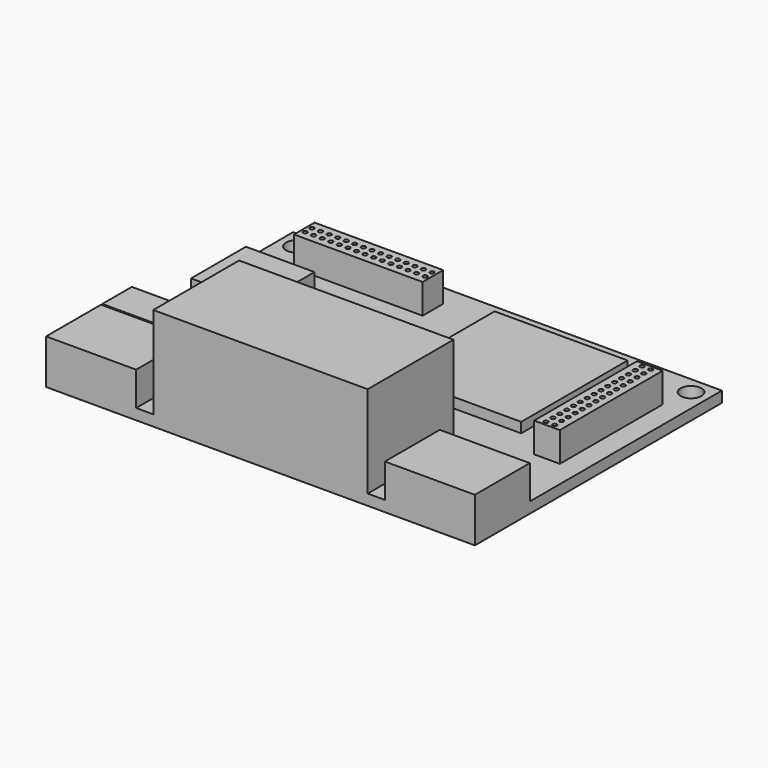
from build123d import *

# Parameters (mm, degrees)
F0_R     = 1.55
F0_W     = 7.62
F0_H     = 7.62
F0_W_2   = 10.16
F0_H_2   = 10.16
F0_W_3   = 19.05
F0_H_3   = 3.81
F0_W_4   = 19.685
F0_H_4   = 19.685
F0_W_5   = 3.81
F0_H_5   = 19.05
F0_W_6   = 31.75
F0_H_6   = 15.875
F0_W_7   = 13.335
F0_R_2   = 0.3175
F0_H_7   = 5.465
F1_DEPTH = 1.6
F2_DEPTH = 4.4
F3_DEPTH = 1.5
F4_DEPTH = 4.3
F5_DEPTH = 5
F6_DEPTH = 13.6


with BuildPart() as f1:
    # F0 (on Top) → F1 (new body)
    with BuildSketch(Plane.XY):
        Polygon((31.75, -12.7), (31.75, 22.86), (-31.75, 22.86), (-31.75, -6.985), (-21.59, -6.985), (-21.59, -12.45), (-31.75, -12.45), (-31.75, -12.7), (-18.415, -12.7), (-18.415, -22.86), (-15.875, -22.86), (-15.875, -6.985), (15.875, -6.985), (15.875, -22.86), (18.415, -22.86), (18.415, -12.7), align=None)
        with Locations((-19.685, -3.81)):
            Circle(F0_R, mode=Mode.SUBTRACT)
        with Locations((-6.985, -1.27)):
            Rectangle(F0_W, F0_H, mode=Mode.SUBTRACT)
        with Locations((-23.495, 5.08)):
            Rectangle(F0_W_2, F0_H_2, mode=Mode.SUBTRACT)
        with Locations((-29.21, 20.32)):
            Circle(F0_R, mode=Mode.SUBTRACT)
        with Locations((-16.51, 17.78)):
            Rectangle(F0_W_3, F0_H_3, mode=Mode.SUBTRACT)
        with Locations((10.4775, 9.8425)):
            Rectangle(F0_W_4, F0_H_4, mode=Mode.SUBTRACT)
        with Locations((26.67, 6.35)):
            Rectangle(F0_W_5, F0_H_5, mode=Mode.SUBTRACT)
        with Locations((29.21, 20.32)):
            Circle(F0_R, mode=Mode.SUBTRACT)
        with Locations((0, -14.9225)):
            Rectangle(F0_W_6, F0_H_6)
        with Locations((10.4775, 9.8425)):
            Rectangle(F0_W_4, F0_H_4)
        with Locations((-25.0825, -17.78)):
            Rectangle(F0_W_7, F0_H_2)
        with Locations((25.0825, -17.78)):
            Rectangle(F0_W_7, F0_H_2)
        with Locations((-23.495, 5.08)):
            Rectangle(F0_W_2, F0_H_2)
        with Locations((26.67, 6.35)):
            Rectangle(F0_W_5, F0_H_5)
        with Locations((26.035, -2.54)):
            Circle(F0_R_2, mode=Mode.SUBTRACT)
        with Locations((27.305, -2.54)):
            Circle(F0_R_2, mode=Mode.SUBTRACT)
        with Locations((26.035, -1.27)):
            Circle(F0_R_2, mode=Mode.SUBTRACT)
        with Locations((27.305, -1.27)):
            Circle(F0_R_2, mode=Mode.SUBTRACT)
        with Locations((26.035, 0)):
            Circle(F0_R_2, mode=Mode.SUBTRACT)
        with Locations((27.305, 0)):
            Circle(F0_R_2, mode=Mode.SUBTRACT)
        with Locations((26.035, 1.27)):
            Circle(F0_R_2, mode=Mode.SUBTRACT)
        with Locations((27.305, 1.27)):
            Circle(F0_R_2, mode=Mode.SUBTRACT)
        with Locations((26.035, 2.54)):
            Circle(F0_R_2, mode=Mode.SUBTRACT)
        with Locations((27.305, 2.54)):
            Circle(F0_R_2, mode=Mode.SUBTRACT)
        with Locations((26.035, 3.81)):
            Circle(F0_R_2, mode=Mode.SUBTRACT)
        with Locations((27.305, 3.81)):
            Circle(F0_R_2, mode=Mode.SUBTRACT)
        with Locations((26.035, 5.08)):
            Circle(F0_R_2, mode=Mode.SUBTRACT)
        with Locations((27.305, 5.08)):
            Circle(F0_R_2, mode=Mode.SUBTRACT)
        with Locations((26.035, 6.35)):
            Circle(F0_R_2, mode=Mode.SUBTRACT)
        with Locations((27.305, 6.35)):
            Circle(F0_R_2, mode=Mode.SUBTRACT)
        with Locations((26.035, 7.62)):
            Circle(F0_R_2, mode=Mode.SUBTRACT)
        with Locations((27.305, 7.62)):
            Circle(F0_R_2, mode=Mode.SUBTRACT)
        with Locations((26.035, 8.89)):
            Circle(F0_R_2, mode=Mode.SUBTRACT)
        with Locations((27.305, 8.89)):
            Circle(F0_R_2, mode=Mode.SUBTRACT)
        with Locations((26.035, 10.16)):
            Circle(F0_R_2, mode=Mode.SUBTRACT)
        with Locations((27.305, 10.16)):
            Circle(F0_R_2, mode=Mode.SUBTRACT)
        with Locations((26.035, 11.43)):
            Circle(F0_R_2, mode=Mode.SUBTRACT)
        with Locations((27.305, 11.43)):
            Circle(F0_R_2, mode=Mode.SUBTRACT)
        with Locations((26.035, 12.7)):
            Circle(F0_R_2, mode=Mode.SUBTRACT)
        with Locations((27.305, 12.7)):
            Circle(F0_R_2, mode=Mode.SUBTRACT)
        with Locations((26.035, 13.97)):
            Circle(F0_R_2, mode=Mode.SUBTRACT)
        with Locations((27.305, 13.97)):
            Circle(F0_R_2, mode=Mode.SUBTRACT)
        with Locations((26.035, 15.24)):
            Circle(F0_R_2, mode=Mode.SUBTRACT)
        with Locations((27.305, 15.24)):
            Circle(F0_R_2, mode=Mode.SUBTRACT)
        with Locations((-16.51, 17.78)):
            Rectangle(F0_W_3, F0_H_3)
        with Locations((-25.4, 17.145)):
            Circle(F0_R_2, mode=Mode.SUBTRACT)
        with Locations((-24.13, 17.145)):
            Circle(F0_R_2, mode=Mode.SUBTRACT)
        with Locations((-25.4, 18.415)):
            Circle(F0_R_2, mode=Mode.SUBTRACT)
        with Locations((-24.13, 18.415)):
            Circle(F0_R_2, mode=Mode.SUBTRACT)
        with Locations((-22.86, 17.145)):
            Circle(F0_R_2, mode=Mode.SUBTRACT)
        with Locations((-22.86, 18.415)):
            Circle(F0_R_2, mode=Mode.SUBTRACT)
        with Locations((-21.59, 17.145)):
            Circle(F0_R_2, mode=Mode.SUBTRACT)
        with Locations((-20.32, 17.145)):
            Circle(F0_R_2, mode=Mode.SUBTRACT)
        with Locations((-21.59, 18.415)):
            Circle(F0_R_2, mode=Mode.SUBTRACT)
        with Locations((-20.32, 18.415)):
            Circle(F0_R_2, mode=Mode.SUBTRACT)
        with Locations((-19.05, 17.145)):
            Circle(F0_R_2, mode=Mode.SUBTRACT)
        with Locations((-19.05, 18.415)):
            Circle(F0_R_2, mode=Mode.SUBTRACT)
        with Locations((-17.78, 17.145)):
            Circle(F0_R_2, mode=Mode.SUBTRACT)
        with Locations((-16.51, 17.145)):
            Circle(F0_R_2, mode=Mode.SUBTRACT)
        with Locations((-17.78, 18.415)):
            Circle(F0_R_2, mode=Mode.SUBTRACT)
        with Locations((-16.51, 18.415)):
            Circle(F0_R_2, mode=Mode.SUBTRACT)
        with Locations((-15.24, 17.145)):
            Circle(F0_R_2, mode=Mode.SUBTRACT)
        with Locations((-13.97, 17.145)):
            Circle(F0_R_2, mode=Mode.SUBTRACT)
        with Locations((-15.24, 18.415)):
            Circle(F0_R_2, mode=Mode.SUBTRACT)
        with Locations((-13.97, 18.415)):
            Circle(F0_R_2, mode=Mode.SUBTRACT)
        with Locations((-12.7, 17.145)):
            Circle(F0_R_2, mode=Mode.SUBTRACT)
        with Locations((-12.7, 18.415)):
            Circle(F0_R_2, mode=Mode.SUBTRACT)
        with Locations((-11.43, 17.145)):
            Circle(F0_R_2, mode=Mode.SUBTRACT)
        with Locations((-10.16, 17.145)):
            Circle(F0_R_2, mode=Mode.SUBTRACT)
        with Locations((-11.43, 18.415)):
            Circle(F0_R_2, mode=Mode.SUBTRACT)
        with Locations((-10.16, 18.415)):
            Circle(F0_R_2, mode=Mode.SUBTRACT)
        with Locations((-8.89, 17.145)):
            Circle(F0_R_2, mode=Mode.SUBTRACT)
        with Locations((-8.89, 18.415)):
            Circle(F0_R_2, mode=Mode.SUBTRACT)
        with Locations((-7.62, 17.145)):
            Circle(F0_R_2, mode=Mode.SUBTRACT)
        with Locations((-7.62, 18.415)):
            Circle(F0_R_2, mode=Mode.SUBTRACT)
        with Locations((-6.985, -1.27)):
            Rectangle(F0_W, F0_H)
        with Locations((-26.67, -9.7175)):
            Rectangle(F0_W_2, F0_H_7)
        with Locations((27.305, 11.43)):
            Circle(F0_R_2)
        with Locations((27.305, 5.08)):
            Circle(F0_R_2)
        with Locations((26.035, 7.62)):
            Circle(F0_R_2)
        with Locations((26.035, 11.43)):
            Circle(F0_R_2)
        with Locations((-12.7, 18.415)):
            Circle(F0_R_2)
        with Locations((-22.86, 17.145)):
            Circle(F0_R_2)
        with Locations((26.035, 6.35)):
            Circle(F0_R_2)
        with Locations((-7.62, 18.415)):
            Circle(F0_R_2)
        with Locations((26.035, 5.08)):
            Circle(F0_R_2)
        with Locations((-10.16, 18.415)):
            Circle(F0_R_2)
        with Locations((-17.78, 17.145)):
            Circle(F0_R_2)
        with Locations((-21.59, 18.415)):
            Circle(F0_R_2)
        with Locations((-7.62, 17.145)):
            Circle(F0_R_2)
        with Locations((-16.51, 17.145)):
            Circle(F0_R_2)
        with Locations((-8.89, 18.415)):
            Circle(F0_R_2)
        with Locations((26.035, 0)):
            Circle(F0_R_2)
        with Locations((27.305, 12.7)):
            Circle(F0_R_2)
        with Locations((-19.05, 17.145)):
            Circle(F0_R_2)
        with Locations((27.305, 10.16)):
            Circle(F0_R_2)
        with Locations((26.035, 12.7)):
            Circle(F0_R_2)
        with Locations((26.035, 1.27)):
            Circle(F0_R_2)
        with Locations((-11.43, 18.415)):
            Circle(F0_R_2)
        with Locations((26.035, 13.97)):
            Circle(F0_R_2)
        with Locations((-22.86, 18.415)):
            Circle(F0_R_2)
        with Locations((26.035, 10.16)):
            Circle(F0_R_2)
        with Locations((-21.59, 17.145)):
            Circle(F0_R_2)
        with Locations((27.305, 1.27)):
            Circle(F0_R_2)
        with Locations((27.305, 13.97)):
            Circle(F0_R_2)
        with Locations((-17.78, 18.415)):
            Circle(F0_R_2)
        with Locations((26.035, 15.24)):
            Circle(F0_R_2)
        with Locations((27.305, 0)):
            Circle(F0_R_2)
        with Locations((-20.32, 17.145)):
            Circle(F0_R_2)
        with Locations((-19.05, 18.415)):
            Circle(F0_R_2)
        with Locations((27.305, 8.89)):
            Circle(F0_R_2)
        with Locations((26.035, 3.81)):
            Circle(F0_R_2)
        with Locations((-16.51, 18.415)):
            Circle(F0_R_2)
        with Locations((26.035, 8.89)):
            Circle(F0_R_2)
        with Locations((27.305, 2.54)):
            Circle(F0_R_2)
        with Locations((-8.89, 17.145)):
            Circle(F0_R_2)
        with Locations((26.035, 2.54)):
            Circle(F0_R_2)
        with Locations((-10.16, 17.145)):
            Circle(F0_R_2)
        with Locations((27.305, 6.35)):
            Circle(F0_R_2)
        with Locations((-15.24, 17.145)):
            Circle(F0_R_2)
        with Locations((-13.97, 17.145)):
            Circle(F0_R_2)
        with Locations((27.305, 7.62)):
            Circle(F0_R_2)
        with Locations((-11.43, 17.145)):
            Circle(F0_R_2)
        with Locations((-13.97, 18.415)):
            Circle(F0_R_2)
        with Locations((-12.7, 17.145)):
            Circle(F0_R_2)
        with Locations((-20.32, 18.415)):
            Circle(F0_R_2)
        with Locations((27.305, 3.81)):
            Circle(F0_R_2)
        with Locations((-15.24, 18.415)):
            Circle(F0_R_2)
        with Locations((27.305, 15.24)):
            Circle(F0_R_2)
        with Locations((26.035, -1.27)):
            Circle(F0_R_2)
        with Locations((27.305, -1.27)):
            Circle(F0_R_2)
        with Locations((-24.13, 17.145)):
            Circle(F0_R_2)
        with Locations((-24.13, 18.415)):
            Circle(F0_R_2)
        with Locations((-25.4, 17.145)):
            Circle(F0_R_2)
        with Locations((26.035, -2.54)):
            Circle(F0_R_2)
        with Locations((-25.4, 18.415)):
            Circle(F0_R_2)
        with Locations((27.305, -2.54)):
            Circle(F0_R_2)
    extrude(amount=-F1_DEPTH)

    # F0 (on Top) → F2 (join)
    with BuildSketch(Plane.XY):
        with Locations((-16.51, 17.78)):
            Rectangle(F0_W_3, F0_H_3)
        with Locations((-25.4, 17.145)):
            Circle(F0_R_2, mode=Mode.SUBTRACT)
        with Locations((-24.13, 17.145)):
            Circle(F0_R_2, mode=Mode.SUBTRACT)
        with Locations((-25.4, 18.415)):
            Circle(F0_R_2, mode=Mode.SUBTRACT)
        with Locations((-24.13, 18.415)):
            Circle(F0_R_2, mode=Mode.SUBTRACT)
        with Locations((-22.86, 17.145)):
            Circle(F0_R_2, mode=Mode.SUBTRACT)
        with Locations((-22.86, 18.415)):
            Circle(F0_R_2, mode=Mode.SUBTRACT)
        with Locations((-21.59, 17.145)):
            Circle(F0_R_2, mode=Mode.SUBTRACT)
        with Locations((-20.32, 17.145)):
            Circle(F0_R_2, mode=Mode.SUBTRACT)
        with Locations((-21.59, 18.415)):
            Circle(F0_R_2, mode=Mode.SUBTRACT)
        with Locations((-20.32, 18.415)):
            Circle(F0_R_2, mode=Mode.SUBTRACT)
        with Locations((-19.05, 17.145)):
            Circle(F0_R_2, mode=Mode.SUBTRACT)
        with Locations((-19.05, 18.415)):
            Circle(F0_R_2, mode=Mode.SUBTRACT)
        with Locations((-17.78, 17.145)):
            Circle(F0_R_2, mode=Mode.SUBTRACT)
        with Locations((-16.51, 17.145)):
            Circle(F0_R_2, mode=Mode.SUBTRACT)
        with Locations((-17.78, 18.415)):
            Circle(F0_R_2, mode=Mode.SUBTRACT)
        with Locations((-16.51, 18.415)):
            Circle(F0_R_2, mode=Mode.SUBTRACT)
        with Locations((-15.24, 17.145)):
            Circle(F0_R_2, mode=Mode.SUBTRACT)
        with Locations((-13.97, 17.145)):
            Circle(F0_R_2, mode=Mode.SUBTRACT)
        with Locations((-15.24, 18.415)):
            Circle(F0_R_2, mode=Mode.SUBTRACT)
        with Locations((-13.97, 18.415)):
            Circle(F0_R_2, mode=Mode.SUBTRACT)
        with Locations((-12.7, 17.145)):
            Circle(F0_R_2, mode=Mode.SUBTRACT)
        with Locations((-12.7, 18.415)):
            Circle(F0_R_2, mode=Mode.SUBTRACT)
        with Locations((-11.43, 17.145)):
            Circle(F0_R_2, mode=Mode.SUBTRACT)
        with Locations((-10.16, 17.145)):
            Circle(F0_R_2, mode=Mode.SUBTRACT)
        with Locations((-11.43, 18.415)):
            Circle(F0_R_2, mode=Mode.SUBTRACT)
        with Locations((-10.16, 18.415)):
            Circle(F0_R_2, mode=Mode.SUBTRACT)
        with Locations((-8.89, 17.145)):
            Circle(F0_R_2, mode=Mode.SUBTRACT)
        with Locations((-8.89, 18.415)):
            Circle(F0_R_2, mode=Mode.SUBTRACT)
        with Locations((-7.62, 17.145)):
            Circle(F0_R_2, mode=Mode.SUBTRACT)
        with Locations((-7.62, 18.415)):
            Circle(F0_R_2, mode=Mode.SUBTRACT)
        with Locations((26.67, 6.35)):
            Rectangle(F0_W_5, F0_H_5)
        with Locations((26.035, -2.54)):
            Circle(F0_R_2, mode=Mode.SUBTRACT)
        with Locations((27.305, -2.54)):
            Circle(F0_R_2, mode=Mode.SUBTRACT)
        with Locations((26.035, -1.27)):
            Circle(F0_R_2, mode=Mode.SUBTRACT)
        with Locations((27.305, -1.27)):
            Circle(F0_R_2, mode=Mode.SUBTRACT)
        with Locations((26.035, 0)):
            Circle(F0_R_2, mode=Mode.SUBTRACT)
        with Locations((27.305, 0)):
            Circle(F0_R_2, mode=Mode.SUBTRACT)
        with Locations((26.035, 1.27)):
            Circle(F0_R_2, mode=Mode.SUBTRACT)
        with Locations((27.305, 1.27)):
            Circle(F0_R_2, mode=Mode.SUBTRACT)
        with Locations((26.035, 2.54)):
            Circle(F0_R_2, mode=Mode.SUBTRACT)
        with Locations((27.305, 2.54)):
            Circle(F0_R_2, mode=Mode.SUBTRACT)
        with Locations((26.035, 3.81)):
            Circle(F0_R_2, mode=Mode.SUBTRACT)
        with Locations((27.305, 3.81)):
            Circle(F0_R_2, mode=Mode.SUBTRACT)
        with Locations((26.035, 5.08)):
            Circle(F0_R_2, mode=Mode.SUBTRACT)
        with Locations((27.305, 5.08)):
            Circle(F0_R_2, mode=Mode.SUBTRACT)
        with Locations((26.035, 6.35)):
            Circle(F0_R_2, mode=Mode.SUBTRACT)
        with Locations((27.305, 6.35)):
            Circle(F0_R_2, mode=Mode.SUBTRACT)
        with Locations((26.035, 7.62)):
            Circle(F0_R_2, mode=Mode.SUBTRACT)
        with Locations((27.305, 7.62)):
            Circle(F0_R_2, mode=Mode.SUBTRACT)
        with Locations((26.035, 8.89)):
            Circle(F0_R_2, mode=Mode.SUBTRACT)
        with Locations((27.305, 8.89)):
            Circle(F0_R_2, mode=Mode.SUBTRACT)
        with Locations((26.035, 10.16)):
            Circle(F0_R_2, mode=Mode.SUBTRACT)
        with Locations((27.305, 10.16)):
            Circle(F0_R_2, mode=Mode.SUBTRACT)
        with Locations((26.035, 11.43)):
            Circle(F0_R_2, mode=Mode.SUBTRACT)
        with Locations((27.305, 11.43)):
            Circle(F0_R_2, mode=Mode.SUBTRACT)
        with Locations((26.035, 12.7)):
            Circle(F0_R_2, mode=Mode.SUBTRACT)
        with Locations((27.305, 12.7)):
            Circle(F0_R_2, mode=Mode.SUBTRACT)
        with Locations((26.035, 13.97)):
            Circle(F0_R_2, mode=Mode.SUBTRACT)
        with Locations((27.305, 13.97)):
            Circle(F0_R_2, mode=Mode.SUBTRACT)
        with Locations((26.035, 15.24)):
            Circle(F0_R_2, mode=Mode.SUBTRACT)
        with Locations((27.305, 15.24)):
            Circle(F0_R_2, mode=Mode.SUBTRACT)
    extrude(amount=F2_DEPTH)

    # F0 (on Top) → F3 (join)
    with BuildSketch(Plane.XY):
        with Locations((10.4775, 9.8425)):
            Rectangle(F0_W_4, F0_H_4)
        with Locations((-6.985, -1.27)):
            Rectangle(F0_W, F0_H)
    extrude(amount=F3_DEPTH)

    # F0 (on Top) → F4 (join)
    with BuildSketch(Plane.XY):
        with Locations((-23.495, 5.08)):
            Rectangle(F0_W_2, F0_H_2)
    extrude(amount=F4_DEPTH)

    # F0 (on Top) → F5 (join)
    with BuildSketch(Plane.XY):
        with Locations((-26.67, -9.7175)):
            Rectangle(F0_W_2, F0_H_7)
        with Locations((-25.0825, -17.78)):
            Rectangle(F0_W_7, F0_H_2)
        with Locations((25.0825, -17.78)):
            Rectangle(F0_W_7, F0_H_2)
    extrude(amount=F5_DEPTH)

    # F0 (on Top) → F6 (join)
    with BuildSketch(Plane.XY):
        with Locations((0, -14.9225)):
            Rectangle(F0_W_6, F0_H_6)
    extrude(amount=F6_DEPTH)


solid = f1.part
